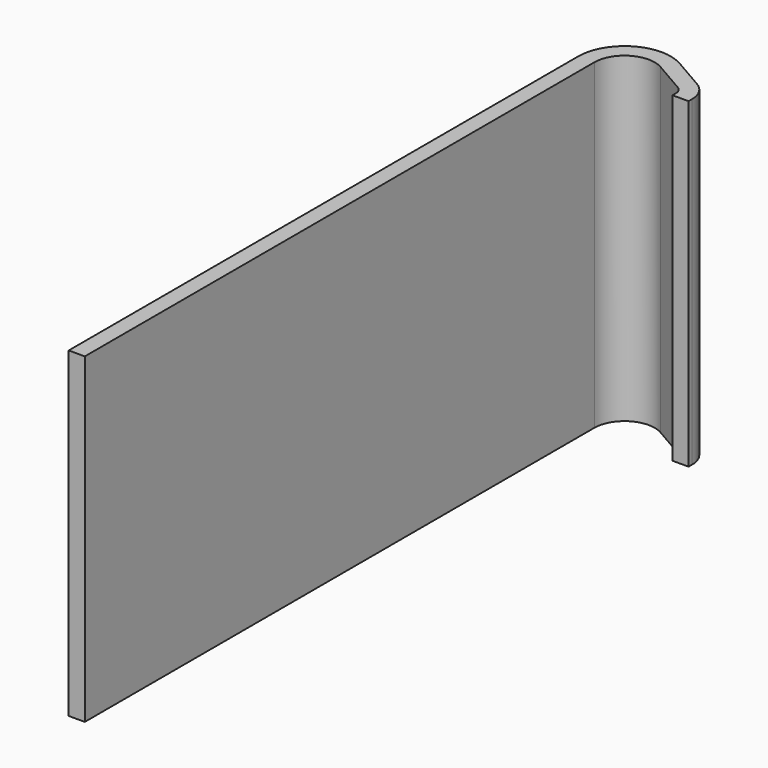
from build123d import *

# Parameters (mm, degrees)
F1_DEPTH = 32


with BuildPart() as f1:
    # F0 (on Top) → F1 (new body)
    with BuildSketch(Plane.XY):
        with BuildLine():
            Line((-6.80564, 7.946152), (-6.80564, -55.391968))
            Line((-6.80564, -55.391968), (-5.20564, -55.391968))
            Line((-5.20564, -55.391968), (-5.20564, 7.946152))
            ThreePointArc((-5.20564, 7.946152), (-3.70564, 10.544228), (-0.70564, 10.544228))
            Line((-0.70564, 10.544228), (2.49436, 8.696707))
            ThreePointArc((2.49436, 8.696707), (2.860385, 8.330682), (2.99436, 7.830682))
            Line((2.99436, 7.830682), (2.99436, 7.408032))
            Line((2.99436, 7.408032), (4.59436, 7.408032))
            Line((4.59436, 7.408032), (4.59436, 7.830682))
            ThreePointArc((4.59436, 7.830682), (4.246026, 9.130682), (3.29436, 10.082348))
            Line((3.29436, 10.082348), (0.09436, 11.929869))
            ThreePointArc((0.09436, 11.929869), (-4.50564, 11.929869), (-6.80564, 7.946152))
        make_face()
    extrude(amount=F1_DEPTH)


solid = f1.part
